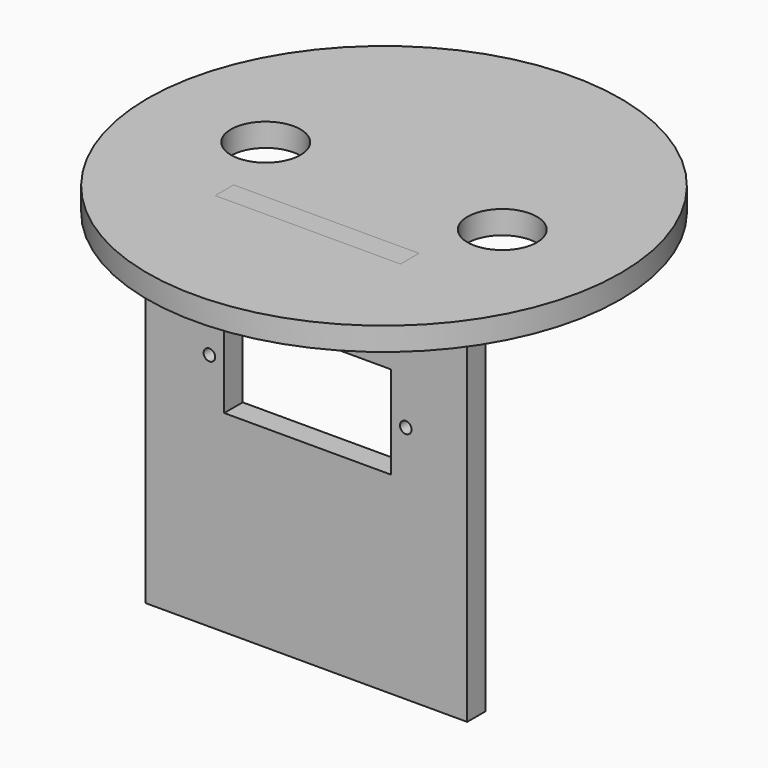
from build123d import *

# Parameters (mm, degrees)
F0_R     = 32.4231
F0_W     = 25.4
F0_H     = 3.175
F0_R_2   = 4.7625
F1_DEPTH = 3.175
F2_R     = 0.79375
F2_W     = 22.86
F2_H     = 12.7
F2_W_2   = 25.4
F2_H_2   = 3.175
F3_DEPTH = 3.175


with BuildPart() as f1:
    # F0 (on Top) → F1 (new body)
    with BuildSketch(Plane.XY):
        Circle(F0_R)
        with Locations((0, -11.466003)):
            Rectangle(F0_W, F0_H, mode=Mode.SUBTRACT)
        with Locations((-16.21155, 0)):
            Circle(F0_R_2, mode=Mode.SUBTRACT)
        with Locations((16.21155, 0)):
            Circle(F0_R_2, mode=Mode.SUBTRACT)
    extrude(amount=F1_DEPTH)


with BuildPart() as f3:
    # F2 (on face) → F3 (new body)
    with BuildSketch(Plane.XZ.offset(9.878503)):
        Polygon((12.7, 0), (-12.7, 0), (-22.235729, 0), (-22.235729, -49.104631), (21.84733, -49.104631), (21.84733, 0), align=None)
        with Locations((-13.49375, -16.311007)):
            Circle(F2_R, mode=Mode.SUBTRACT)
        with Locations((-0.03175, -16.311007)):
            Rectangle(F2_W, F2_H, mode=Mode.SUBTRACT)
        with Locations((13.43025, -16.311007)):
            Circle(F2_R, mode=Mode.SUBTRACT)
        with Locations((0, 1.5875)):
            Rectangle(F2_W_2, F2_H_2)
    extrude(amount=F3_DEPTH)


solid = Compound([f1.part, f3.part])
